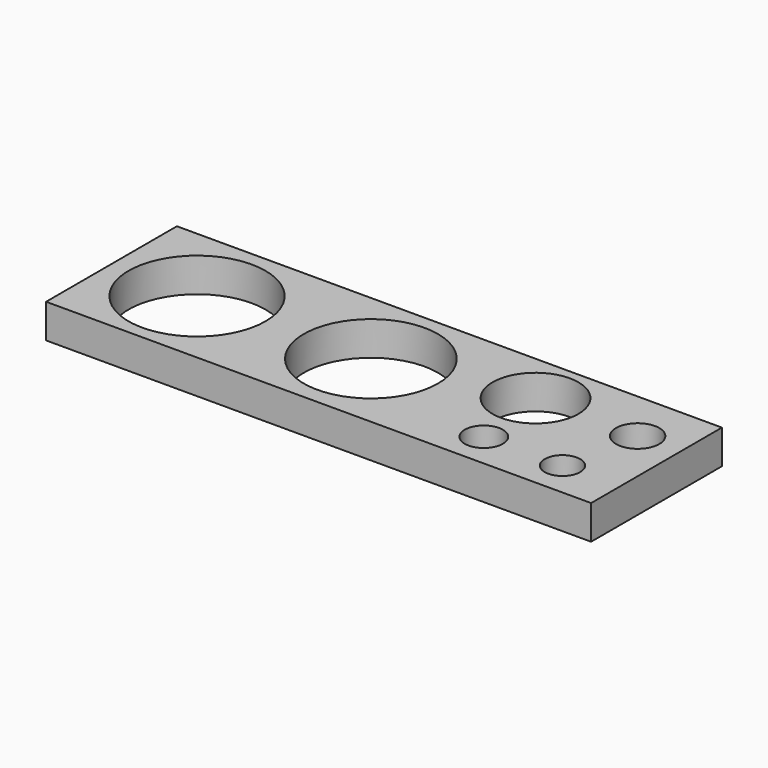
from build123d import *

# Parameters (mm, degrees)
F0_W     = 50.8
F0_H     = 15.24
F0_R     = 6.38048
F0_R_2   = 1.778
F0_R_3   = 1.64973
F0_R_4   = 6.25348
F0_R_5   = 4
F0_R_6   = 2.0193
F1_DEPTH = 3.175


with BuildPart() as f1:
    # F0 (on Top) → F1 (new body)
    with BuildSketch(Plane.XY):
        with Locations((-25.4, 7.62)):
            Rectangle(F0_W, F0_H)
        with Locations((-42.780787, 7.561902)):
            Circle(F0_R, mode=Mode.SUBTRACT)
        with Locations((-12.626914, 3.283488)):
            Circle(F0_R_2, mode=Mode.SUBTRACT)
        with Locations((-5.322113, 3.313233)):
            Circle(F0_R_3, mode=Mode.SUBTRACT)
        with Locations((-26.723793, 7.746466)):
            Circle(F0_R_4, mode=Mode.SUBTRACT)
        with Locations((-13.496768, 10.391871)):
            Circle(F0_R_5, mode=Mode.SUBTRACT)
        with Locations((-3.957512, 10.368511)):
            Circle(F0_R_6, mode=Mode.SUBTRACT)
    extrude(amount=F1_DEPTH)


solid = f1.part
